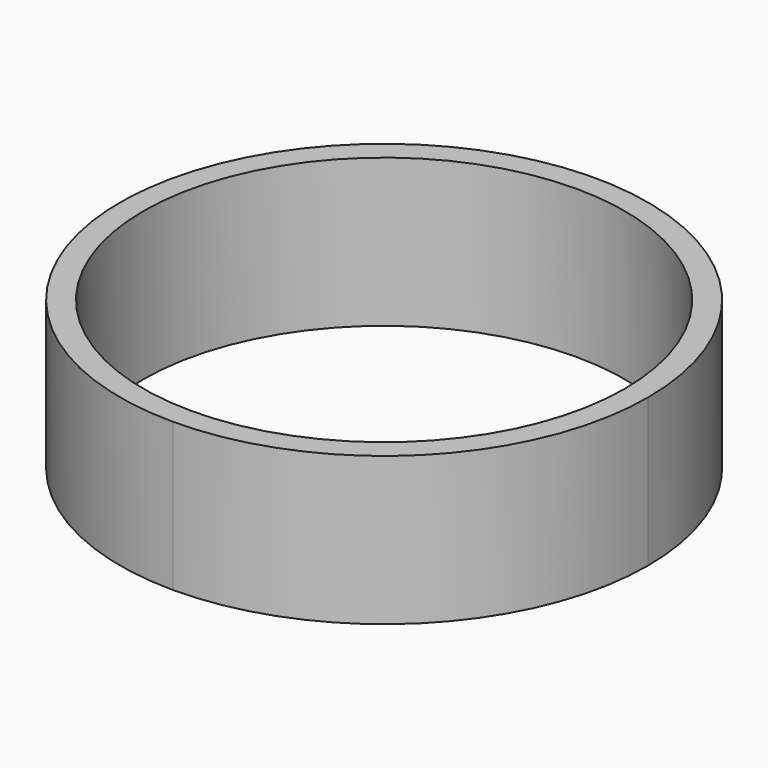
from build123d import *

# Parameters (mm, degrees)
F1_DEPTH = 10.16


with BuildPart() as f1:
    # F0 (on Top) → F1 (new body)
    with BuildSketch(Plane.XY):
        with BuildLine():
            ThreePointArc((18.11, 0), (-12.805704, 12.805704), (0, -18.11))
            ThreePointArc((0, -18.11), (12.805704, -12.805704), (18.11, 0))
        make_face()
        with BuildLine():
            ThreePointArc((0, -16.51), (-11.674333, 11.674333), (16.51, 0))
            ThreePointArc((16.51, 0), (11.674333, -11.674333), (0, -16.51))
        make_face(mode=Mode.SUBTRACT)
    extrude(amount=F1_DEPTH)


solid = f1.part
